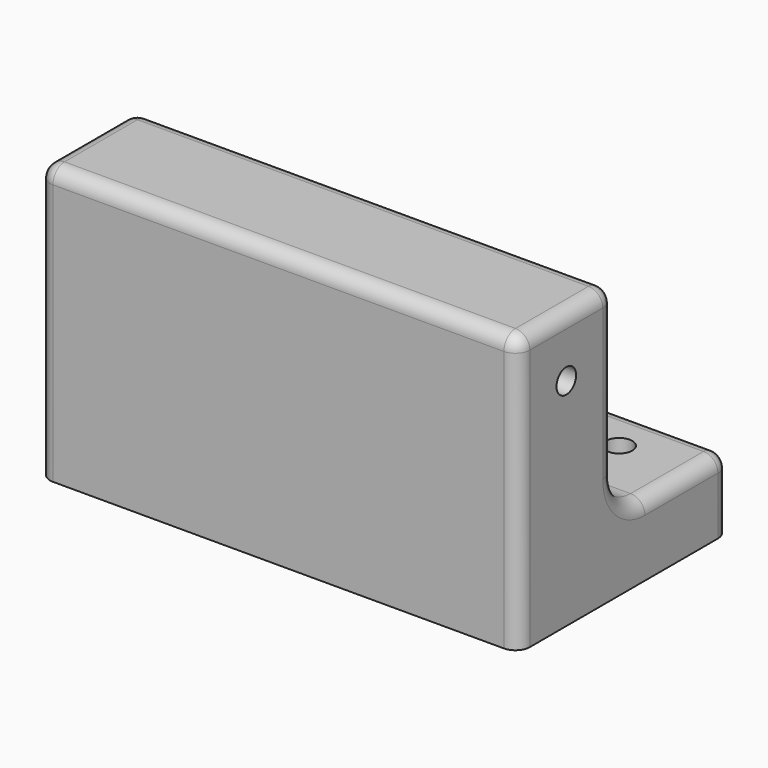
from build123d import *

# Parameters (mm, degrees)
F0_R     = 2.55
F1_DEPTH = 100
F2_R     = 2.75
F3_DEPTH = 15
F4_R     = 3


with BuildPart() as f1:
    # F0 (on Right) → F1 (new body)
    with BuildSketch(Plane.YZ):
        with BuildLine():
            Line((0, 57.5), (0, 0))
            Line((0, 0), (55, 0))
            Line((55, 0), (55, 15))
            Line((55, 15), (33, 15))
            ThreePointArc((33, 15), (27.343146, 17.343146), (25, 23))
            Line((25, 23), (25, 57.5))
            Line((25, 57.5), (0, 57.5))
        make_face()
        with Locations((12.5, 45)):
            Circle(F0_R, mode=Mode.SUBTRACT)
    extrude(amount=F1_DEPTH)

    # F2 (on Top) → F3 (cut)
    with BuildSketch(Plane.XY):
        with Locations((15, 45)):
            Circle(F2_R)
        with Locations((85, 45)):
            Circle(F2_R)
    extrude(amount=F3_DEPTH, mode=Mode.SUBTRACT)

    # F4
    f4_edges = [f1.edges().sort_by_distance(p)[0] for p in [
        (100, 12.5, 57.5),
        (0, 12.5, 57.5),
        (50, 25, 57.5),
        (50, 0, 57.5),
        (100, 44, 15),
        (50, 55, 15),
        (0, 44, 15),
        (100, 0, 28.75),
        (0, 0, 28.75),
        (0, 55, 7.5),
        (100, 55, 7.5),
    ]]
    fillet(f4_edges, radius=F4_R)


solid = f1.part
